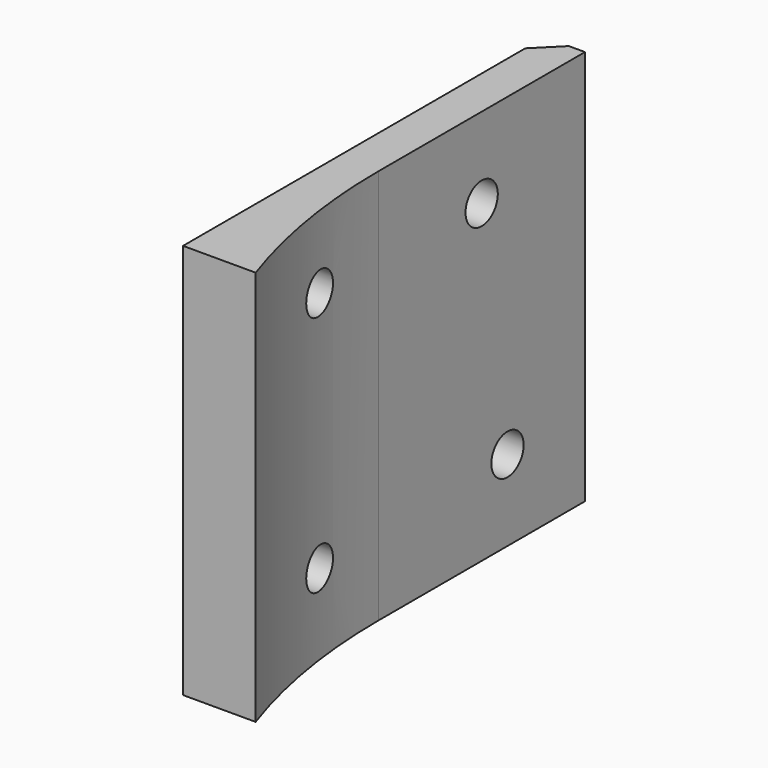
from build123d import *

# Parameters (mm, degrees)
BOX764_W           = 148
BOX764_H           = 74
BOX764_DEPTH       = 55
CYLINDER1805_R     = 74
CYLINDER1805_DEPTH = 60
CYLINDER1810_R     = 2.5
CYLINDER1810_DEPTH = 40
CYLINDER1806_R     = 2.5
CYLINDER1806_DEPTH = 40
CYLINDER1885_R     = 2.5
CYLINDER1885_DEPTH = 40
CYLINDER1809_R     = 2.5
CYLINDER1809_DEPTH = 40
BOX769_W           = 10
BOX769_H           = 56
BOX769_DEPTH       = 49
CHAMFER065_SIZE    = 3


with BuildPart() as krychle764:
    # Box764 → Box764 (new body)
    with BuildSketch(Plane(origin=(-74, 0, 29), x_dir=(1, 0, 0), z_dir=(0, 0, 1))):
        with Locations((74, 37)):
            Rectangle(BOX764_W, BOX764_H)
    extrude(amount=BOX764_DEPTH)


with BuildPart() as obj1:
    # Cylinder1805 → Cylinder1805 (new body)
    with BuildSketch(Plane.XY.offset(26)):
        Circle(CYLINDER1805_R)
    extrude(amount=CYLINDER1805_DEPTH)


with BuildPart() as obj2:
    # Cylinder1810 → Cylinder1810 (new body)
    with BuildSketch(Plane(origin=(-86, 20, 39), x_dir=(0, 0, -1), z_dir=(1, 0, 0))):
        Circle(CYLINDER1810_R)
    extrude(amount=CYLINDER1810_DEPTH)


with BuildPart() as obj3:
    # Cylinder1806 → Cylinder1806 (new body)
    with BuildSketch(Plane(origin=(-86, -10, 69), x_dir=(0, 0, -1), z_dir=(1, 0, 0))):
        Circle(CYLINDER1806_R)
    extrude(amount=CYLINDER1806_DEPTH)


with BuildPart() as obj4:
    # Cylinder1885 → Cylinder1885 (new body)
    with BuildSketch(Plane(origin=(-86, 16, 68), x_dir=(0, 0, -1), z_dir=(1, 0, 0))):
        Circle(CYLINDER1885_R)
    extrude(amount=CYLINDER1885_DEPTH)


with BuildPart() as compound919:
    # Cylinder1809 → Cylinder1809 (new body)
    with BuildSketch(Plane(origin=(-86, -10, 39), x_dir=(0, 0, -1), z_dir=(1, 0, 0))):
        Circle(CYLINDER1809_R)
    extrude(amount=CYLINDER1809_DEPTH)

    # Compound919: union obj2, obj3, obj4
    add(obj2.part)
    add(obj3.part)
    add(obj4.part)


with BuildPart() as cut568:
    # Box769 → Box769 (new body)
    with BuildSketch(Plane(origin=(-79, -24, 29), x_dir=(1, 0, 0), z_dir=(0, 0, 1))):
        with Locations((5, 28)):
            Rectangle(BOX769_W, BOX769_H)
    extrude(amount=BOX769_DEPTH)

    # Chamfer065
    chamfer065_edges = [cut568.edges().sort_by_distance(p)[0] for p in [
        (-79, 32, 53.5),
    ]]
    chamfer(chamfer065_edges, length=CHAMFER065_SIZE)

    # Cut556: cut Compound919
    add(compound919.part, mode=Mode.SUBTRACT)

    # Cut557: cut obj1
    add(obj1.part, mode=Mode.SUBTRACT)

    # Cut568: cut Krychle764
    add(krychle764.part, mode=Mode.SUBTRACT)


solid = cut568.part
